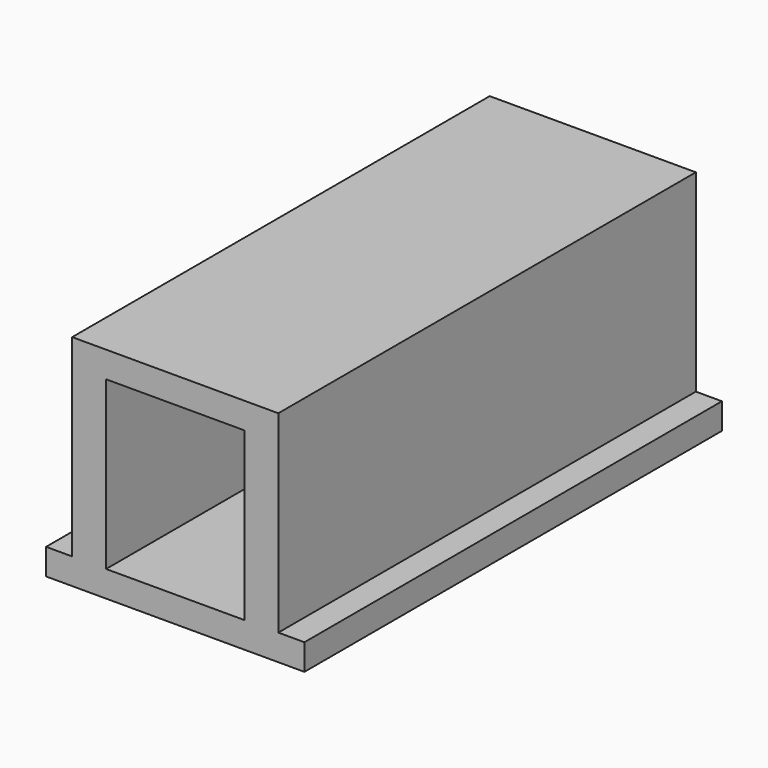
from build123d import *

# Parameters (mm, degrees)
PAD_DEPTH = 20


with BuildPart() as part:
    # Sketch → Pad (new body)
    with BuildSketch(Plane.XZ):
        Polygon((3.95, 8.4), (3.95, 1), (4.95, 1), (4.95, 0), (0, 0), (0, 1), (2.65, 1), (2.65, 7.4), (0, 7.4), (0, 8.4), align=None)
    pad = extrude(amount=PAD_DEPTH)

    # Mirrored: Pad across Sketch V_Axis
    add(pad.mirror(Plane(origin=(0, 0, 0), x_dir=(0, -1, 0), z_dir=(1, 0, 0))))


solid = part.part
